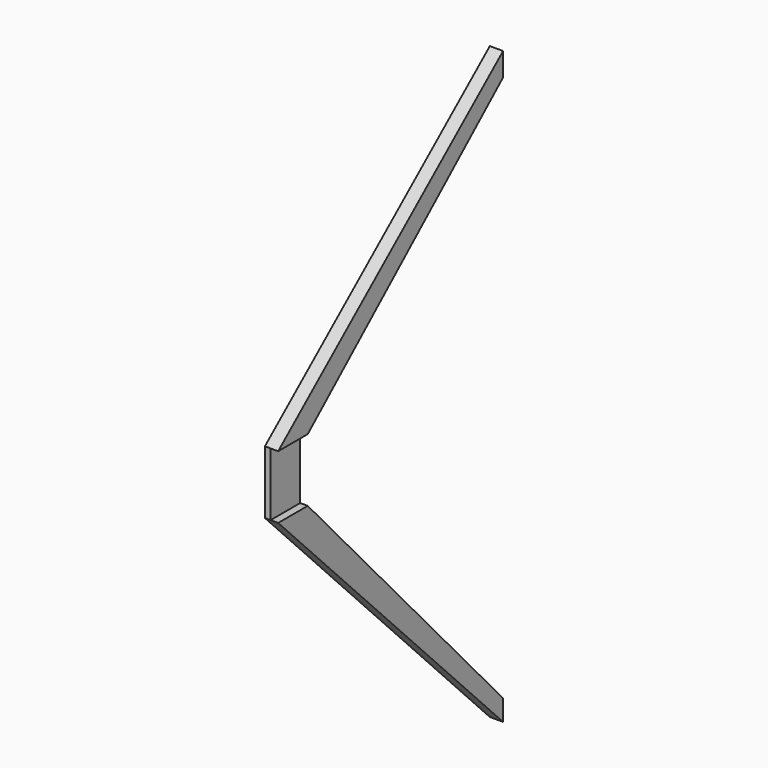
from build123d import *

# Parameters (mm, degrees)
F0_W     = 9.7513645887
F0_H     = 16.6467409581
F1_DEPTH = 1.5
F3_DEPTH = 2


with BuildPart() as f1:
    # F0 (on Right) → F1 (new body)
    with BuildSketch(Plane.YZ):
        Polygon((0, 73.2810720801), (0, 79.4240608811), (-74.1512551904, 16.6467409581), (-64.3998906016, 16.6467409581), align=None)
        Polygon((-64.3998906016, 0), (-74.1512551904, 0), (0, -76.3428732753), (0, -70.8468183875), align=None)
        with Locations((-69.275572896, 8.323370479)):
            Rectangle(F0_W, F0_H)
    extrude(amount=F1_DEPTH)

    # F2 (on face) → F3 (join)
    with BuildSketch(Plane.YZ.offset(1.5)):
        Polygon((0, 79.4240608811), (-74.1512551904, 16.6467409581), (-64.3998906016, 16.6467409581), (0, 73.2810720801), align=None)
        Polygon((-64.3998906016, 0), (-74.1512551904, 0), (0, -76.3428732753), (0, -70.8468183875), align=None)
    extrude(amount=F3_DEPTH)


solid = f1.part
